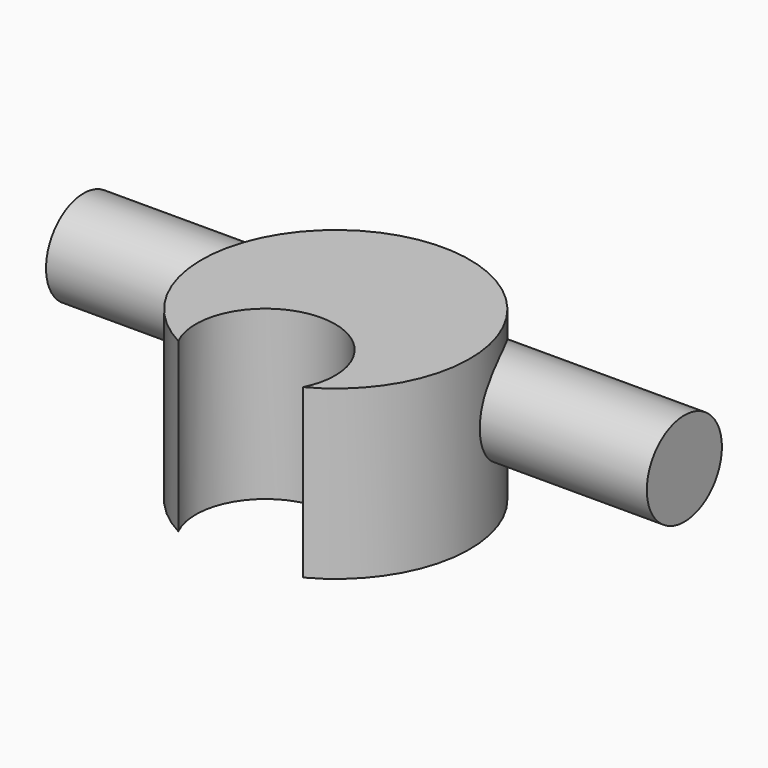
from build123d import *

# Parameters (mm, degrees)
F1_DEPTH = 25
F2_R     = 7
F3_DEPTH = 44.8


with BuildPart() as f1:
    # F0 (on Top) → F1 (new body)
    with BuildSketch(Plane.XY):
        with BuildLine():
            ThreePointArc((9.3112189127, -17.700316448), (17.1205195344, -10.3386561444), (20, 0))
            ThreePointArc((20, 0), (-10.3386561444, 17.1205195344), (-9.3112189127, -17.700316448))
            ThreePointArc((-9.3112189127, -17.700316448), (-2.366281081, -2.976079882), (10.3891312117, -13.0921443924))
            ThreePointArc((10.3891312117, -13.0921443924), (10.1160645105, -15.4584254735), (9.3112189127, -17.700316448))
        make_face()
    extrude(amount=F1_DEPTH)


with BuildPart() as f3:
    # F2 (on Right) → F3 (new body, symmetric)
    with BuildSketch(Plane.YZ):
        with Locations((8.9958831668, 15)):
            Circle(F2_R)
    extrude(amount=F3_DEPTH, both=True)


solid = Compound([f1.part, f3.part])
